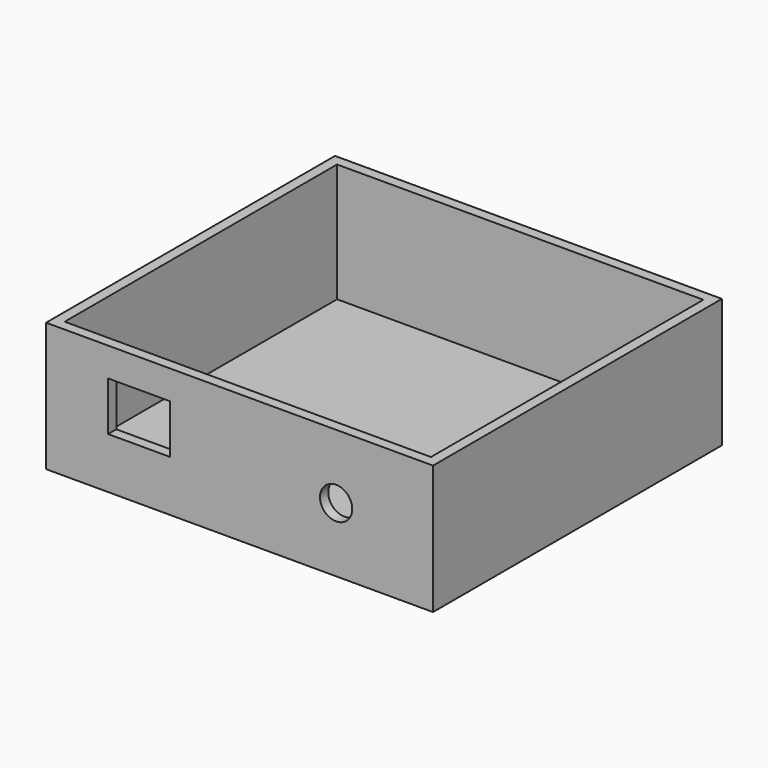
from build123d import *

# Parameters (mm, degrees)
F0_W     = 95.25
F0_H     = 31.75
F1_DEPTH = 88.9
F2_T     = -2.54
F4_D     = 7.9375
F4_DEPTH = 12.7
F5_W     = 15.24
F5_H     = 12.065
F6_DEPTH = 2.54


with BuildPart() as f1:
    # F0 (on Front) → F1 (new body)
    with BuildSketch(Plane.XZ):
        Rectangle(F0_W, F0_H)
    extrude(amount=F1_DEPTH)

    # F2
    f2_openings = [f1.faces().sort_by_distance(p)[0] for p in [
        (0, -44.45, 15.875),
    ]]
    offset(amount=F2_T, openings=f2_openings)

    # F4
    with Locations(Plane.XZ.offset(88.9)):
        with Locations((23.771884, 0)):
            Hole(F4_D / 2, depth=F4_DEPTH)

    # F5 (on face) → F6 (cut, through all)
    with BuildSketch(Plane.XZ.offset(88.9)):
        with Locations((-24.736177, 2.730849)):
            Rectangle(F5_W, F5_H)
    extrude(amount=-F6_DEPTH, mode=Mode.SUBTRACT)


solid = f1.part
